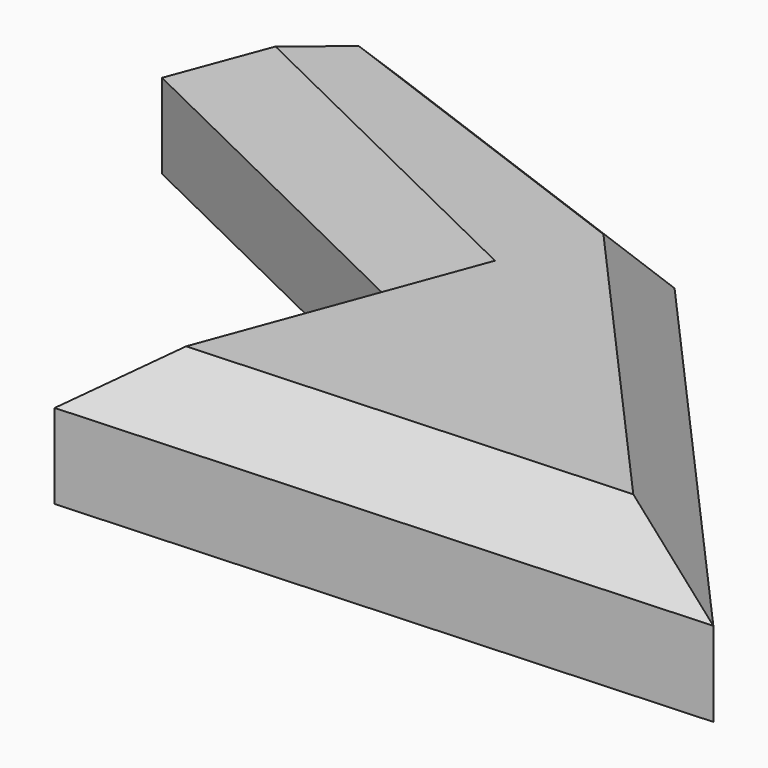
from build123d import *

# Parameters (mm, degrees)
F1_DEPTH = 12.7
F2_SIZE  = 5.08


with BuildPart() as f1:
    # F0 (on Top) → F1 (new body)
    with BuildSketch(Plane.XY):
        Polygon((-30.392047, 33.666328), (-43.321259, 23.087882), (-7.891857, 5.792959), (-17.798657, -20.905027), (39.123464, -17.882613), (4.869445, 20.569203), align=None)
    extrude(amount=F1_DEPTH)

    # F2
    f2_edges = [f1.edges().sort_by_distance(p)[0] for p in [
        (-12.761301, 27.117766, 12.7),
        (-36.856653, 28.377105, 12.7),
        (-25.606558, 14.44042, 12.7),
        (-12.845257, -7.556034, 12.7),
        (10.662404, -19.39382, 12.7),
        (21.996455, 1.343295, 12.7),
    ]]
    chamfer(f2_edges, length=F2_SIZE)


solid = f1.part
